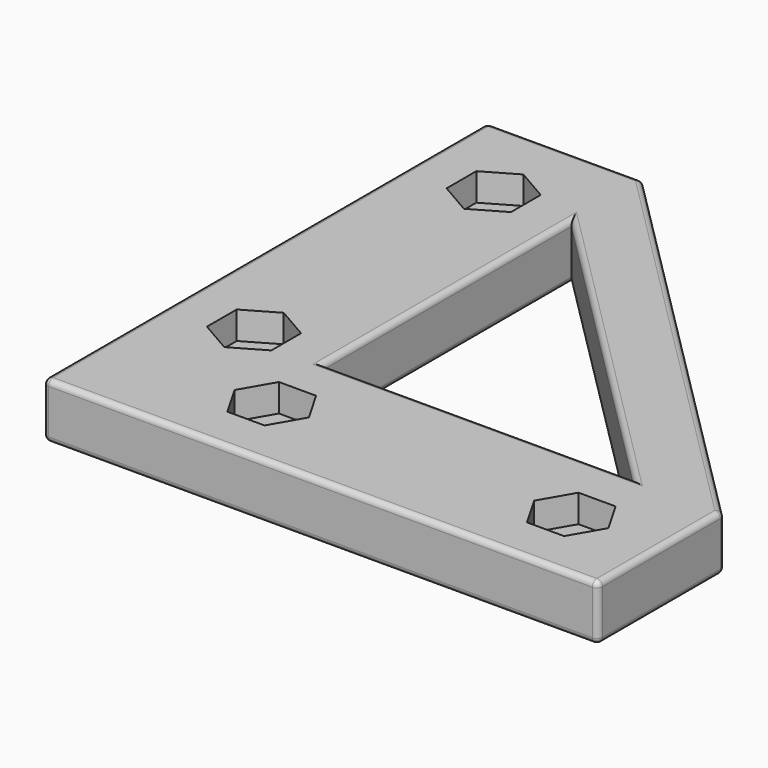
from build123d import *

# Parameters (mm, degrees)
F0_W     = 20.1
F0_H     = 10.1
F0_W_2   = 10.1
F0_H_2   = 20.1
F1_DEPTH = 5
F2_DEPTH = 2.1
F3_D     = 3
F5_DEPTH = 2.5
F6_R     = 0.5


with BuildPart() as f1:
    # F0 (on Top) → F1 (new body)
    with BuildSketch(Plane.XY):
        Polygon((0, 50), (0, 0), (50, 0), (50, 14), (42, 14), (14, 14), (14, 42), (14, 50), align=None)
        with Locations((28.5, 6.05)):
            Rectangle(F0_W, F0_H, mode=Mode.SUBTRACT)
        with Locations((6.05, 28.5)):
            Rectangle(F0_W_2, F0_H_2, mode=Mode.SUBTRACT)
        Polygon((42, 14), (50, 14), (14, 50), (14, 42), align=None)
        with Locations((6.05, 28.5)):
            Rectangle(F0_W_2, F0_H_2)
        with Locations((28.5, 6.05)):
            Rectangle(F0_W, F0_H)
    extrude(amount=F1_DEPTH)

    # F0 (on Top) → F2 (cut)
    with BuildSketch(Plane.XY):
        with Locations((6.05, 28.5)):
            Rectangle(F0_W_2, F0_H_2)
        with Locations((28.5, 6.05)):
            Rectangle(F0_W, F0_H)
    extrude(amount=F2_DEPTH, mode=Mode.SUBTRACT)

    # F3 (through all)
    with Locations(Plane(origin=(0, 0, 0), x_dir=(1, 0, 0), z_dir=(0, 0, -1))):
        with Locations((7, -15), (15, -7), (42, -7), (7, -42)):
            Hole(F3_D / 2)

    # F4 (on face) → F5 (cut)
    with BuildSketch(Plane.XY.offset(5)):
        Polygon((7, 45.3486315613), (4.1, 43.6743157806), (4.1, 40.3256842194), (7, 38.6513684387), (9.9, 40.3256842194), (9.9, 43.6743157806), align=None)
        Polygon((7, 18.3486315613), (4.1, 16.6743157806), (4.1, 13.3256842194), (7, 11.6513684387), (9.9, 13.3256842194), (9.9, 16.6743157806), align=None)
        Polygon((18.3486315613, 7), (16.6743157806, 9.9), (13.3256842194, 9.9), (11.6513684387, 7), (13.3256842194, 4.1), (16.6743157806, 4.1), align=None)
        Polygon((40.3256842194, 9.9), (38.6513684387, 7), (40.3256842194, 4.1), (43.6743157806, 4.1), (45.3486315613, 7), (43.6743157806, 9.9), align=None)
    extrude(amount=-F5_DEPTH, mode=Mode.SUBTRACT)

    # F6
    f6_edges = [f1.edges().sort_by_distance(p)[0] for p in [
        (0, 0, 2.5),
        (50, 0, 2.5),
        (50, 14, 2.5),
        (14, 50, 2.5),
        (0, 50, 2.5),
        (0, 25, 5),
        (7, 50, 0),
        (32, 32, 0),
        (50, 7, 0),
        (25, 0, 0),
        (28, 14, 0),
        (28, 28, 0),
        (14, 28, 0),
        (0, 25, 0),
        (25, 0, 5),
        (50, 7, 5),
        (32, 32, 5),
        (14, 28, 5),
        (28, 28, 5),
        (28, 14, 5),
        (7, 50, 5),
    ]]
    fillet(f6_edges, radius=F6_R)


solid = f1.part
